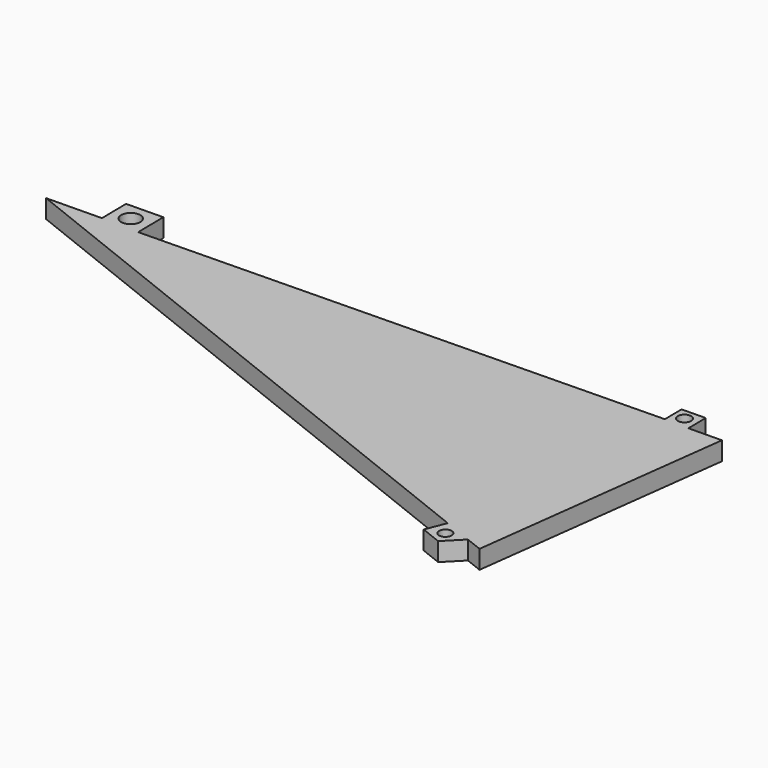
from build123d import *

# Parameters (mm, degrees)
F0_R     = 1.020325
F0_R_2   = 1.548711
F0_R_3   = 1.077589
F1_DEPTH = 3


with BuildPart() as f1:
    # F0 (on Top) → F1 (new body)
    with BuildSketch(Plane.XY):
        Polygon((-44.293535, -4.967679), (-53.245742, -5.100852), (42.127925, -42.918586), (40.838051, -46.171556), (44.256443, -47.527023), (46.91701, -44.817562), (49.666192, -45.907672), (55.035513, -3.490057), (49.66289, -3.56998), (49.609783, 0), (45.741532, -0.057544), (45.792594, -3.490057), (-38.318739, -5.100852), (-38.39594, 0.088832), (-44.367435, 0), align=None)
        with Locations((43.610454, -45.253806)):
            Circle(F0_R, mode=Mode.SUBTRACT)
        with Locations((-41.381688, -2.774148)):
            Circle(F0_R_2, mode=Mode.SUBTRACT)
        with Locations((47.607955, -1.789773)):
            Circle(F0_R_3, mode=Mode.SUBTRACT)
    extrude(amount=F1_DEPTH)


solid = f1.part
